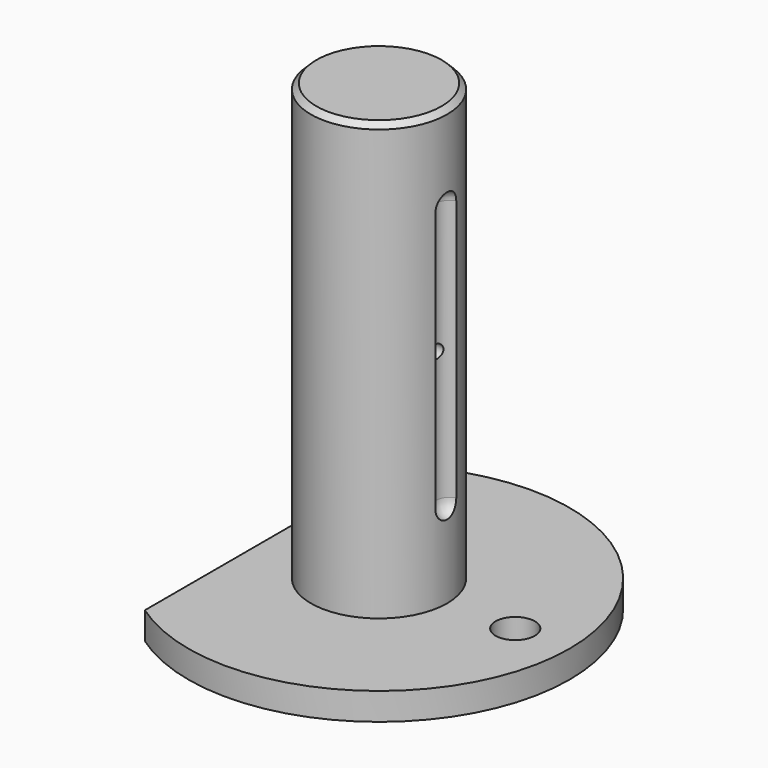
from build123d import *

# Parameters (mm, degrees)
SKETCH_R        = 35
PAD_DEPTH       = 5
SKETCH001_R     = 12.5
PAD001_DEPTH    = 80
SKETCH003_R     = 1.25
POCKET_DEPTH    = 35.001
SKETCH004_R     = 3.6
POCKET001_DEPTH = 85.001
SKETCH005_R     = 4.25
HOLE_DEPTH      = 55
HOLE_TIPS_R     = 4.25
CHAMFER_SIZE    = 1
SKETCH006_W     = 25.864929
SKETCH006_H     = 80.956299
POCKET002_DEPTH = 5.001


with BuildPart() as part:
    # Sketch → Pad (new body)
    with BuildSketch(Plane.XY):
        Circle(SKETCH_R)
    extrude(amount=PAD_DEPTH)

    # Sketch001 (on Face3 of Pad) → Pad001 (join)
    with BuildSketch(Plane.XY.offset(5)):
        Circle(SKETCH001_R)
    extrude(amount=PAD001_DEPTH)

    # Sketch002 (on DatumPlane) → Groove (revolve, cut)
    with BuildSketch(Plane.XZ):
        with BuildLine():
            Line((10.5, 68.999986), (10.5, 20.999986))
            ThreePointArc((10.5, 20.999986), (11.232238, 19.232228), (13, 18.5))
            Line((13, 71.5), (13, 18.5))
            ThreePointArc((13, 71.5), (11.232228, 70.767762), (10.5, 68.999986))
        make_face()
    revolve(axis=Axis((13, 0, 0), (0, 0, -1)), mode=Mode.SUBTRACT)

    # Sketch003 (on DatumPlane) → Pocket (cut, through all)
    with BuildSketch(Plane.YZ):
        with Locations((0, 45)):
            Circle(SKETCH003_R)
    extrude(amount=POCKET_DEPTH, mode=Mode.SUBTRACT)

    # Sketch004 (on Face2 of Pocket) → Pocket001 (cut, through all)
    with BuildSketch(Plane(origin=(0, 0, 0), x_dir=(1, 0, 0), z_dir=(0, 0, -1))):
        with Locations((25, 0)):
            Circle(SKETCH004_R)
    extrude(amount=-POCKET001_DEPTH, mode=Mode.SUBTRACT)

    # Sketch005 (on Face2 of Pocket001) → Hole (cut)
    with BuildSketch(Plane(origin=(0, 0, 0), x_dir=(1, 0, 0), z_dir=(0, 0, -1))):
        Circle(SKETCH005_R)
    extrude(amount=-HOLE_DEPTH, mode=Mode.SUBTRACT)

    # Hole tips → Hole tip 1 section 0
    with BuildSketch(Plane(origin=(0, 0, 55), x_dir=(1, 0, 0), z_dir=(0, 0, -1)), mode=Mode.PRIVATE) as hole_tip_1_s0:
        Circle(HOLE_TIPS_R)
    loft([hole_tip_1_s0.sketch, Vertex(0, 0, 57.553658)], mode=Mode.SUBTRACT)

    # Chamfer
    chamfer_edges = [part.edges().sort_by_distance(p)[0] for p in [
        (-12.5, 0, 85),
    ]]
    chamfer(chamfer_edges, length=CHAMFER_SIZE)

    # Sketch006 (on Face9 of Clone) → Pocket002 (cut, through all)
    with BuildSketch(Plane.XY.offset(5)):
        with Locations((-32.932464, -3.256923)):
            Rectangle(SKETCH006_W, SKETCH006_H)
    extrude(amount=-POCKET002_DEPTH, mode=Mode.SUBTRACT)


solid = part.part
